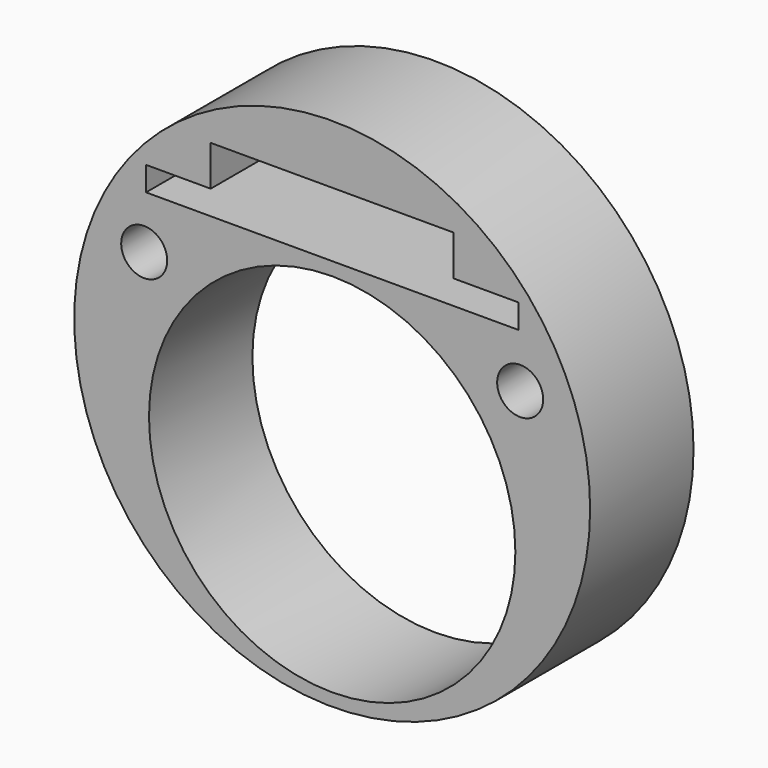
from build123d import *

# Parameters (mm, degrees)
F0_R     = 12.6746
F0_R_2   = 9
F1_DEPTH = 6.35
F2_D     = 2.2606


with BuildPart() as f1:
    # F0 (on Front) → F1 (new body)
    with BuildSketch(Plane.XZ):
        Circle(F0_R)
        with Locations((0, -3.048)):
            Circle(F0_R_2, mode=Mode.SUBTRACT)
        Polygon((9.144, 6.604), (-9.144, 6.604), (-9.144, 7.794625), (-5.969, 7.794625), (-5.969, 9.779), (0, 9.779), (5.969, 9.779), (5.969, 7.794625), (9.144, 7.794625), align=None, mode=Mode.SUBTRACT)
    extrude(amount=F1_DEPTH)

    # F2 (through all)
    with Locations(Plane(origin=(0, 0, 0), x_dir=(1, 0, 0), z_dir=(0, 1, 0))):
        with Locations((9.2354822209, -3.9925365306), (-9.2354822209, -3.9925365306)):
            Hole(F2_D / 2)


solid = f1.part
